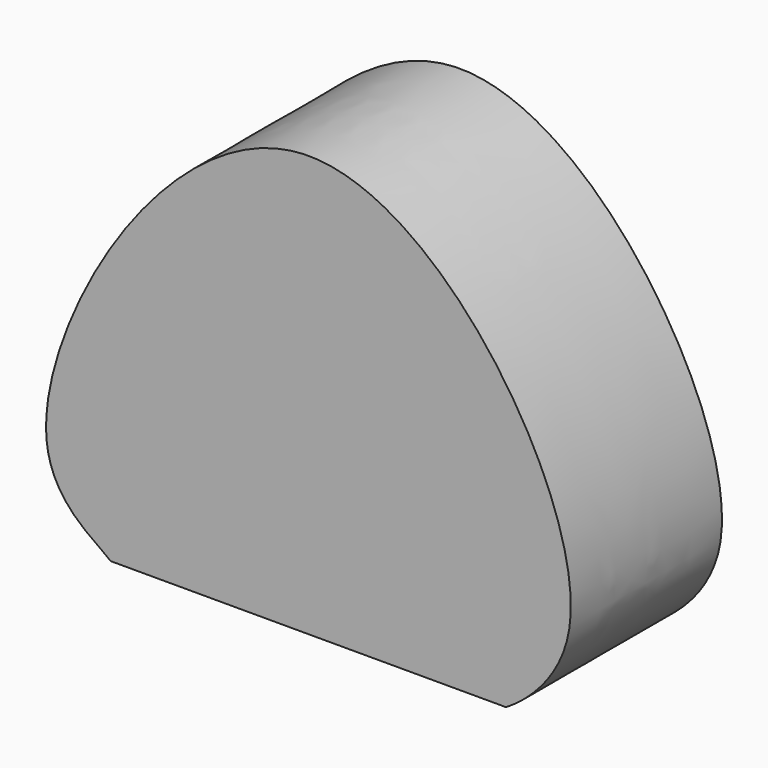
from build123d import *

# Parameters (mm, degrees)
F1_DEPTH = 17.78


with BuildPart() as f1:
    # F0 (on Front) → F1 (new body)
    with BuildSketch(Plane.XZ):
        with BuildLine():
            add(Edge.make_bspline(
                [(-18.190972507, 0), (-19.6695615973, 1.2680748591), (-31.521820562, 6.5975638592), (-0.61033995, 60.8836229472), (33.4546738172, 8.653225058), (18.5397888265, -0.3028513884), (18.9676186822, 0), (18.5907762498, 0)],
                knots=[0, 0, 0, 0, 0.1596881055, 0.4816014716, 0.8029629211, 0.967804815, 1, 1, 1, 1], degree=3))
            Line((-18.190972507, 0), (18.5907762498, 0))
        make_face()
    extrude(amount=F1_DEPTH)


solid = f1.part
